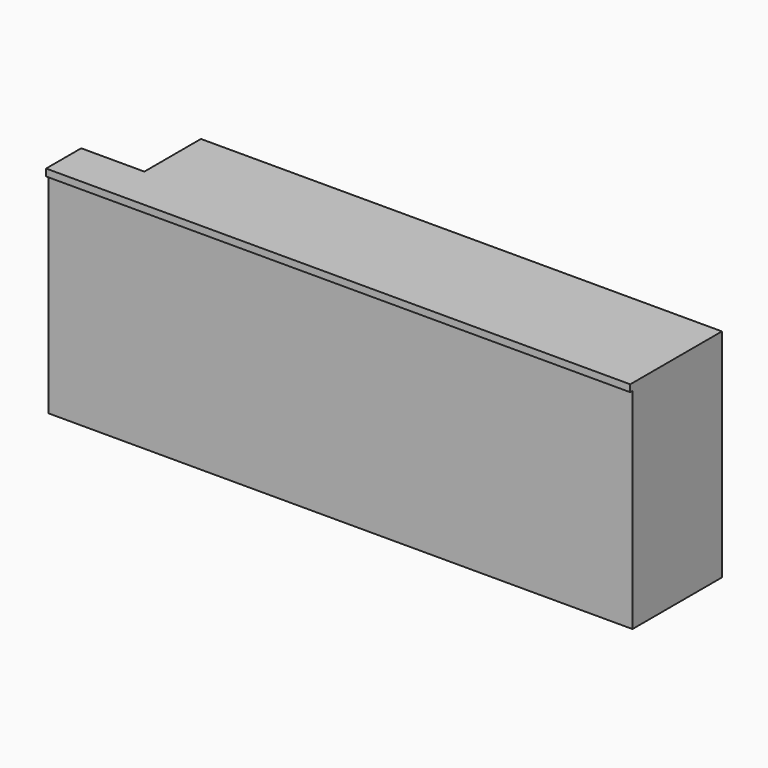
from build123d import *

# Parameters (mm, degrees)
F1_DEPTH = 750
F2_W     = 2090
F2_H     = 10
F3_DEPTH = 25


with BuildPart() as f1:
    # F0 (on Top) → F1 (new body)
    with BuildSketch(Plane.XY):
        Polygon((0, -400), (0, 0), (-1864, 0), (-1864, -253), (-2090, -253), (-2090, -400), align=None)
    extrude(amount=F1_DEPTH)

    # F2 (on face) → F3 (join)
    with BuildSketch(Plane.XY.offset(750)):
        Polygon((0, 0), (-1864, 0), (-1864, -253), (-2090, -253), (-2090, -400), (0, -400), align=None)
        with Locations((-1045, -405)):
            Rectangle(F2_W, F2_H)
    extrude(amount=F3_DEPTH)


solid = f1.part
